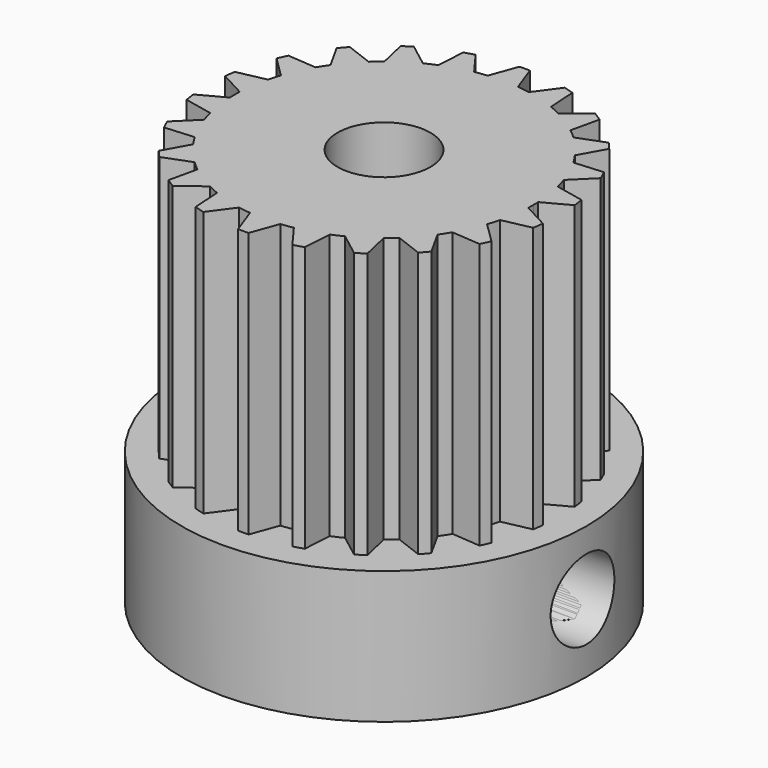
from build123d import *

# Parameters (mm, degrees)
F0_R     = 1.75
F1_DEPTH = 15
F0_R_2   = 7.625
F2_DEPTH = 5
F3_R     = 1.5
F4_DEPTH = 12.5


with BuildPart() as f1:
    # F0 (on Top) → F1 (new body)
    with BuildSketch(Plane.XY):
        with BuildLine():
            ThreePointArc((5.6202052624, -0.2322020854), (5.6238011879, -0.1161257917), (5.625, 0))
            ThreePointArc((5.625, 0), (5.6238011879, 0.1161257917), (5.6202052624, 0.2322020854))
            ThreePointArc((5.6202052624, 0.2322020854), (5.5677456106, 0.8005209653), (5.4579663468, 1.3605985291))
            ThreePointArc((5.4579663468, 1.3605985291), (5.3971479766, 1.5847456322), (5.3271285723, 1.806191068))
            ThreePointArc((5.3271285723, 1.806191068), (5.1166799739, 2.3367094481), (4.8535554575, 2.8431715427))
            ThreePointArc((4.8535554575, 2.8431715427), (4.7320511222, 3.0411045982), (4.602479607, 3.233853192))
            ThreePointArc((4.602479607, 3.233853192), (4.2510913557, 3.6835916284), (3.8559383703, 4.0954077068))
            ThreePointArc((3.8559383703, 4.0954077068), (3.6835916284, 4.2510913557), (3.5049651159, 4.3995277629))
            ThreePointArc((3.5049651159, 4.3995277629), (3.0411045982, 4.7320511222), (2.5459360884, 5.0158582948))
            ThreePointArc((2.5459360884, 5.0158582948), (2.3367094481, 5.1166799739), (2.1234991959, 5.2087787595))
            ThreePointArc((2.1234991959, 5.2087787595), (1.5847456322, 5.3971479766), (1.029677206, 5.5299538743))
            ThreePointArc((1.029677206, 5.5299538743), (0.8005209653, 5.5677456106), (0.57, 5.5960454787))
            ThreePointArc((0.57, 5.5960454787), (0, 5.625), (-0.57, 5.5960454787))
            ThreePointArc((-0.57, 5.5960454787), (-0.8005209653, 5.5677456106), (-1.029677206, 5.5299538743))
            ThreePointArc((-1.029677206, 5.5299538743), (-1.5847456322, 5.3971479766), (-2.1234991959, 5.2087787595))
            ThreePointArc((-2.1234991959, 5.2087787595), (-2.3367094481, 5.1166799739), (-2.5459360884, 5.0158582948))
            ThreePointArc((-2.5459360884, 5.0158582948), (-3.0411045982, 4.7320511222), (-3.5049651159, 4.3995277629))
            ThreePointArc((-3.5049651159, 4.3995277629), (-3.6835916284, 4.2510913557), (-3.8559383703, 4.0954077068))
            ThreePointArc((-3.8559383703, 4.0954077068), (-4.2510913557, 3.6835916284), (-4.602479607, 3.233853192))
            ThreePointArc((-4.602479607, 3.233853192), (-4.7320511222, 3.0411045982), (-4.8535554575, 2.8431715427))
            ThreePointArc((-4.8535554575, 2.8431715427), (-5.1166799739, 2.3367094481), (-5.3271285723, 1.806191068))
            ThreePointArc((-5.3271285723, 1.806191068), (-5.3971479766, 1.5847456322), (-5.4579663468, 1.3605985291))
            ThreePointArc((-5.4579663468, 1.3605985291), (-5.5677456106, 0.8005209653), (-5.6202052624, 0.2322020854))
            ThreePointArc((-5.6202052624, 0.2322020854), (-5.625, 0), (-5.6202052624, -0.2322020854))
            ThreePointArc((-5.6202052624, -0.2322020854), (-5.5677456106, -0.8005209653), (-5.4579663468, -1.3605985291))
            ThreePointArc((-5.4579663468, -1.3605985291), (-5.3971479766, -1.5847456322), (-5.3271285723, -1.806191068))
            ThreePointArc((-5.3271285723, -1.806191068), (-5.1166799739, -2.3367094481), (-4.8535554575, -2.8431715427))
            ThreePointArc((-4.8535554575, -2.8431715427), (-4.7320511222, -3.0411045982), (-4.602479607, -3.233853192))
            ThreePointArc((-4.602479607, -3.233853192), (-4.2510913557, -3.6835916284), (-3.8559383703, -4.0954077068))
            ThreePointArc((-3.8559383703, -4.0954077068), (-3.6835916284, -4.2510913557), (-3.5049651159, -4.3995277629))
            ThreePointArc((-3.5049651159, -4.3995277629), (-3.0411045982, -4.7320511222), (-2.5459360884, -5.0158582948))
            ThreePointArc((-2.5459360884, -5.0158582948), (-2.3367094481, -5.1166799739), (-2.1234991959, -5.2087787595))
            ThreePointArc((-2.1234991959, -5.2087787595), (-1.5847456322, -5.3971479766), (-1.029677206, -5.5299538743))
            ThreePointArc((-1.029677206, -5.5299538743), (-0.8005209653, -5.5677456106), (-0.57, -5.5960454787))
            ThreePointArc((-0.57, -5.5960454787), (0, -5.625), (0.57, -5.5960454787))
            ThreePointArc((0.57, -5.5960454787), (0.8005209653, -5.5677456106), (1.029677206, -5.5299538743))
            ThreePointArc((1.029677206, -5.5299538743), (1.5847456322, -5.3971479766), (2.1234991959, -5.2087787595))
            ThreePointArc((2.1234991959, -5.2087787595), (2.3367094481, -5.1166799739), (2.5459360884, -5.0158582948))
            ThreePointArc((2.5459360884, -5.0158582948), (3.0411045982, -4.7320511222), (3.5049651159, -4.3995277629))
            ThreePointArc((3.5049651159, -4.3995277629), (3.6835916284, -4.2510913557), (3.8559383703, -4.0954077068))
            ThreePointArc((3.8559383703, -4.0954077068), (4.2510913557, -3.6835916284), (4.602479607, -3.233853192))
            ThreePointArc((4.602479607, -3.233853192), (4.7320511222, -3.0411045982), (4.8535554575, -2.8431715427))
            ThreePointArc((4.8535554575, -2.8431715427), (5.1166799739, -2.3367094481), (5.3271285723, -1.806191068))
            ThreePointArc((5.3271285723, -1.806191068), (5.3971479766, -1.5847456322), (5.4579663468, -1.3605985291))
            ThreePointArc((5.4579663468, -1.3605985291), (5.5677456106, -0.8005209653), (5.6202052624, -0.2322020854))
        make_face()
        Circle(F0_R, mode=Mode.SUBTRACT)
        with BuildLine():
            ThreePointArc((-0.57, 5.5960454787), (0, 5.625), (0.57, 5.5960454787))
            Line((0.57, 5.5960454787), (0.1965526412, 6.6220836645))
            ThreePointArc((0.1965526412, 6.6220836645), (0, 6.625), (-0.1965526412, 6.6220836645))
            Line((-0.1965526412, 6.6220836645), (-0.57, 5.5960454787))
        make_face()
        with BuildLine():
            ThreePointArc((1.029677206, 5.5299538743), (1.5847456322, 5.3971479766), (2.1234991959, 5.2087787595))
            Line((2.1234991959, 5.2087787595), (2.0542474406, 6.2984674686))
            ThreePointArc((2.0542474406, 6.2984674686), (1.8664781891, 6.3566409502), (1.6770656843, 6.4092180249))
            Line((1.6770656843, 6.4092180249), (1.029677206, 5.5299538743))
        make_face()
        with BuildLine():
            ThreePointArc((2.5459360884, 5.0158582948), (3.0411045982, 4.7320511222), (3.5049651159, 4.3995277629))
            Line((3.5049651159, 4.3995277629), (3.7455193294, 5.4645868968))
            ThreePointArc((3.7455193294, 5.4645868968), (3.5817454156, 5.573304655), (3.4148181218, 5.677115658))
            Line((3.4148181218, 5.677115658), (2.5459360884, 5.0158582948))
        make_face()
        with BuildLine():
            ThreePointArc((3.8559383703, 4.0954077068), (4.2510913557, 3.6835916284), (4.602479607, 3.233853192))
            Line((4.602479607, 3.233853192), (5.1333515176, 4.1879979939))
            ThreePointArc((5.1333515176, 4.1879979939), (5.0068409301, 4.3384523624), (4.8759223039, 4.4850871437))
            Line((4.8759223039, 4.4850871437), (3.8559383703, 4.0954077068))
        make_face()
        with BuildLine():
            ThreePointArc((4.8535554575, 2.8431715427), (5.1166799739, 2.3367094481), (5.3271285723, 1.806191068))
            Line((5.3271285723, 1.806191068), (6.1053100951, 2.5721224004))
            ThreePointArc((6.1053100951, 2.5721224004), (6.0263119692, 2.7521244611), (5.9420082591, 2.9297035428))
            Line((5.9420082591, 2.9297035428), (4.8535554575, 2.8431715427))
        make_face()
        with BuildLine():
            ThreePointArc((5.4579663468, 1.3605985291), (5.5677456106, 0.8005209653), (5.6202052624, 0.2322020854))
            Line((5.6202052624, 0.2322020854), (6.5826527584, 0.7478687471))
            ThreePointArc((6.5826527584, 0.7478687471), (6.5575670525, 0.9428358036), (6.5267080437, 1.1369727844))
            Line((6.5267080437, 1.1369727844), (5.4579663468, 1.3605985291))
        make_face()
        with BuildLine():
            Line((6.5826527584, -0.7478687471), (5.6202052624, -0.2322020854))
            ThreePointArc((5.6202052624, -0.2322020854), (5.5677456106, -0.8005209653), (5.4579663468, -1.3605985291))
            Line((5.4579663468, -1.3605985291), (6.5267080437, -1.1369727844))
            ThreePointArc((6.5267080437, -1.1369727844), (6.5575670525, -0.9428358036), (6.5826527584, -0.7478687471))
        make_face()
        with BuildLine():
            Line((6.1053100951, -2.5721224004), (5.3271285723, -1.806191068))
            ThreePointArc((5.3271285723, -1.806191068), (5.1166799739, -2.3367094481), (4.8535554575, -2.8431715427))
            Line((4.8535554575, -2.8431715427), (5.9420082591, -2.9297035428))
            ThreePointArc((5.9420082591, -2.9297035428), (6.0263119692, -2.7521244611), (6.1053100951, -2.5721224004))
        make_face()
        with BuildLine():
            Line((5.1333515176, -4.1879979939), (4.602479607, -3.233853192))
            ThreePointArc((4.602479607, -3.233853192), (4.2510913557, -3.6835916284), (3.8559383703, -4.0954077068))
            Line((3.8559383703, -4.0954077068), (4.8759223039, -4.4850871437))
            ThreePointArc((4.8759223039, -4.4850871437), (5.0068409301, -4.3384523624), (5.1333515176, -4.1879979939))
        make_face()
        with BuildLine():
            Line((3.7455193294, -5.4645868968), (3.5049651159, -4.3995277629))
            ThreePointArc((3.5049651159, -4.3995277629), (3.0411045982, -4.7320511222), (2.5459360884, -5.0158582948))
            Line((2.5459360884, -5.0158582948), (3.4148181218, -5.677115658))
            ThreePointArc((3.4148181218, -5.677115658), (3.5817454156, -5.573304655), (3.7455193294, -5.4645868968))
        make_face()
        with BuildLine():
            Line((2.0542474406, -6.2984674686), (2.1234991959, -5.2087787595))
            ThreePointArc((2.1234991959, -5.2087787595), (1.5847456322, -5.3971479766), (1.029677206, -5.5299538743))
            Line((1.029677206, -5.5299538743), (1.6770656843, -6.4092180249))
            ThreePointArc((1.6770656843, -6.4092180249), (1.8664781891, -6.3566409502), (2.0542474406, -6.2984674686))
        make_face()
        with BuildLine():
            Line((0.1965526412, -6.6220836645), (0.57, -5.5960454787))
            ThreePointArc((0.57, -5.5960454787), (0, -5.625), (-0.57, -5.5960454787))
            Line((-0.57, -5.5960454787), (-0.1965526412, -6.6220836645))
            ThreePointArc((-0.1965526412, -6.6220836645), (0, -6.625), (0.1965526412, -6.6220836645))
        make_face()
        with BuildLine():
            Line((-1.6770656843, -6.4092180249), (-1.029677206, -5.5299538743))
            ThreePointArc((-1.029677206, -5.5299538743), (-1.5847456322, -5.3971479766), (-2.1234991959, -5.2087787595))
            Line((-2.1234991959, -5.2087787595), (-2.0542474406, -6.2984674686))
            ThreePointArc((-2.0542474406, -6.2984674686), (-1.8664781891, -6.3566409502), (-1.6770656843, -6.4092180249))
        make_face()
        with BuildLine():
            Line((-3.4148181218, -5.677115658), (-2.5459360884, -5.0158582948))
            ThreePointArc((-2.5459360884, -5.0158582948), (-3.0411045982, -4.7320511222), (-3.5049651159, -4.3995277629))
            Line((-3.5049651159, -4.3995277629), (-3.7455193294, -5.4645868968))
            ThreePointArc((-3.7455193294, -5.4645868968), (-3.5817454156, -5.573304655), (-3.4148181218, -5.677115658))
        make_face()
        with BuildLine():
            Line((-4.8759223039, -4.4850871437), (-3.8559383703, -4.0954077068))
            ThreePointArc((-3.8559383703, -4.0954077068), (-4.2510913557, -3.6835916284), (-4.602479607, -3.233853192))
            Line((-4.602479607, -3.233853192), (-5.1333515176, -4.1879979939))
            ThreePointArc((-5.1333515176, -4.1879979939), (-5.0068409301, -4.3384523624), (-4.8759223039, -4.4850871437))
        make_face()
        with BuildLine():
            Line((-5.9420082591, -2.9297035428), (-4.8535554575, -2.8431715427))
            ThreePointArc((-4.8535554575, -2.8431715427), (-5.1166799739, -2.3367094481), (-5.3271285723, -1.806191068))
            Line((-5.3271285723, -1.806191068), (-6.1053100951, -2.5721224004))
            ThreePointArc((-6.1053100951, -2.5721224004), (-6.0263119692, -2.7521244611), (-5.9420082591, -2.9297035428))
        make_face()
        with BuildLine():
            Line((-6.5267080437, -1.1369727844), (-5.4579663468, -1.3605985291))
            ThreePointArc((-5.4579663468, -1.3605985291), (-5.5677456106, -0.8005209653), (-5.6202052624, -0.2322020854))
            Line((-5.6202052624, -0.2322020854), (-6.5826527584, -0.7478687471))
            ThreePointArc((-6.5826527584, -0.7478687471), (-6.5575670525, -0.9428358036), (-6.5267080437, -1.1369727844))
        make_face()
        with BuildLine():
            ThreePointArc((-5.6202052624, 0.2322020854), (-5.5677456106, 0.8005209653), (-5.4579663468, 1.3605985291))
            Line((-5.4579663468, 1.3605985291), (-6.5267080437, 1.1369727844))
            ThreePointArc((-6.5267080437, 1.1369727844), (-6.5575670525, 0.9428358036), (-6.5826527584, 0.7478687471))
            Line((-6.5826527584, 0.7478687471), (-5.6202052624, 0.2322020854))
        make_face()
        with BuildLine():
            ThreePointArc((-5.3271285723, 1.806191068), (-5.1166799739, 2.3367094481), (-4.8535554575, 2.8431715427))
            Line((-4.8535554575, 2.8431715427), (-5.9420082591, 2.9297035428))
            ThreePointArc((-5.9420082591, 2.9297035428), (-6.0263119692, 2.7521244611), (-6.1053100951, 2.5721224004))
            Line((-6.1053100951, 2.5721224004), (-5.3271285723, 1.806191068))
        make_face()
        with BuildLine():
            ThreePointArc((-4.602479607, 3.233853192), (-4.2510913557, 3.6835916284), (-3.8559383703, 4.0954077068))
            Line((-3.8559383703, 4.0954077068), (-4.8759223039, 4.4850871437))
            ThreePointArc((-4.8759223039, 4.4850871437), (-5.0068409301, 4.3384523624), (-5.1333515176, 4.1879979939))
            Line((-5.1333515176, 4.1879979939), (-4.602479607, 3.233853192))
        make_face()
        with BuildLine():
            ThreePointArc((-3.5049651159, 4.3995277629), (-3.0411045982, 4.7320511222), (-2.5459360884, 5.0158582948))
            Line((-2.5459360884, 5.0158582948), (-3.4148181218, 5.677115658))
            ThreePointArc((-3.4148181218, 5.677115658), (-3.5817454156, 5.573304655), (-3.7455193294, 5.4645868968))
            Line((-3.7455193294, 5.4645868968), (-3.5049651159, 4.3995277629))
        make_face()
        with BuildLine():
            ThreePointArc((-2.1234991959, 5.2087787595), (-1.5847456322, 5.3971479766), (-1.029677206, 5.5299538743))
            Line((-1.029677206, 5.5299538743), (-1.6770656843, 6.4092180249))
            ThreePointArc((-1.6770656843, 6.4092180249), (-1.8664781891, 6.3566409502), (-2.0542474406, 6.2984674686))
            Line((-2.0542474406, 6.2984674686), (-2.1234991959, 5.2087787595))
        make_face()
    extrude(amount=F1_DEPTH)


with BuildPart() as f2:
    # F0 (on Top) → F2 (new body)
    with BuildSketch(Plane.XY):
        Circle(F0_R_2)
        with BuildLine():
            ThreePointArc((7.050542317, 1.0273646071), (7.0524777734, 1.0139932227), (7.0543878709, 1.0006181923))
            ThreePointArc((7.0543878709, 1.0006181923), (7.1073250446, 0.5015532971), (7.125, 0))
            ThreePointArc((7.125, 0), (7.1073250446, -0.5015532971), (7.0543878709, -1.0006181923))
            ThreePointArc((7.0543878709, -1.0006181923), (7.0524777734, -1.0139932227), (7.050542317, -1.0273646071))
            ThreePointArc((7.050542317, -1.0273646071), (6.836387437, -2.0073444675), (6.4867288736, -2.9475368566))
            ThreePointArc((6.4867288736, -2.9475368566), (6.4811279669, -2.9598319676), (6.4755037558, -2.9721164359))
            ThreePointArc((6.4755037558, -2.9721164359), (5.9939314214, -3.8520658244), (5.3935536809, -4.6556636145))
            ThreePointArc((5.3935536809, -4.6556636145), (5.3847157173, -4.6658827294), (5.3758583916, -4.676085067))
            ThreePointArc((5.3758583916, -4.676085067), (4.6658827294, -5.3847157173), (3.8634248458, -5.9866161946))
            ThreePointArc((3.8634248458, -5.9866161946), (3.8520658244, -5.9939314214), (3.840692952, -6.0012250957))
            ThreePointArc((3.840692952, -6.0012250957), (2.9598319676, -6.4811279669), (2.0203043063, -6.8325687344))
            ThreePointArc((2.0203043063, -6.8325687344), (2.0073444675, -6.836387437), (1.9943774108, -6.8401815578))
            ThreePointArc((1.9943774108, -6.8401815578), (1.0139932227, -7.0524777734), (0.0135107271, -7.1249871902))
            ThreePointArc((0.0135107271, -7.1249871902), (0, -7.125), (-0.0135107271, -7.1249871902))
            ThreePointArc((-0.0135107271, -7.1249871902), (-1.0139932227, -7.0524777734), (-1.9943774108, -6.8401815578))
            ThreePointArc((-1.9943774108, -6.8401815578), (-2.0073444675, -6.836387437), (-2.0203043063, -6.8325687344))
            ThreePointArc((-2.0203043063, -6.8325687344), (-2.9598319676, -6.4811279669), (-3.840692952, -6.0012250957))
            ThreePointArc((-3.840692952, -6.0012250957), (-3.8520658244, -5.9939314214), (-3.8634248458, -5.9866161946))
            ThreePointArc((-3.8634248458, -5.9866161946), (-4.6658827294, -5.3847157173), (-5.3758583916, -4.676085067))
            ThreePointArc((-5.3758583916, -4.676085067), (-5.3847157173, -4.6658827294), (-5.3935536809, -4.6556636145))
            ThreePointArc((-5.3935536809, -4.6556636145), (-5.9939314214, -3.8520658244), (-6.4755037558, -2.9721164359))
            ThreePointArc((-6.4755037558, -2.9721164359), (-6.4811279669, -2.9598319676), (-6.4867288736, -2.9475368566))
            ThreePointArc((-6.4867288736, -2.9475368566), (-6.836387437, -2.0073444675), (-7.050542317, -1.0273646071))
            ThreePointArc((-7.050542317, -1.0273646071), (-7.0524777734, -1.0139932227), (-7.0543878709, -1.0006181923))
            ThreePointArc((-7.0543878709, -1.0006181923), (-7.125, 0), (-7.0543878709, 1.0006181923))
            ThreePointArc((-7.0543878709, 1.0006181923), (-7.0524777734, 1.0139932227), (-7.050542317, 1.0273646071))
            ThreePointArc((-7.050542317, 1.0273646071), (-6.836387437, 2.0073444675), (-6.4867288736, 2.9475368566))
            ThreePointArc((-6.4867288736, 2.9475368566), (-6.4811279669, 2.9598319676), (-6.4755037558, 2.9721164359))
            ThreePointArc((-6.4755037558, 2.9721164359), (-5.9939314214, 3.8520658244), (-5.3935536809, 4.6556636145))
            ThreePointArc((-5.3935536809, 4.6556636145), (-5.3847157173, 4.6658827294), (-5.3758583916, 4.676085067))
            ThreePointArc((-5.3758583916, 4.676085067), (-4.6658827294, 5.3847157173), (-3.8634248458, 5.9866161946))
            ThreePointArc((-3.8634248458, 5.9866161946), (-3.8520658244, 5.9939314214), (-3.840692952, 6.0012250957))
            ThreePointArc((-3.840692952, 6.0012250957), (-2.9598319676, 6.4811279669), (-2.0203043063, 6.8325687344))
            ThreePointArc((-2.0203043063, 6.8325687344), (-2.0073444675, 6.836387437), (-1.9943774108, 6.8401815578))
            ThreePointArc((-1.9943774108, 6.8401815578), (-1.0139932227, 7.0524777734), (-0.0135107271, 7.1249871902))
            ThreePointArc((-0.0135107271, 7.1249871902), (0, 7.125), (0.0135107271, 7.1249871902))
            ThreePointArc((0.0135107271, 7.1249871902), (1.0139932227, 7.0524777734), (1.9943774108, 6.8401815578))
            ThreePointArc((1.9943774108, 6.8401815578), (2.0073444675, 6.836387437), (2.0203043063, 6.8325687344))
            ThreePointArc((2.0203043063, 6.8325687344), (2.9598319676, 6.4811279669), (3.840692952, 6.0012250957))
            ThreePointArc((3.840692952, 6.0012250957), (3.8520658244, 5.9939314214), (3.8634248458, 5.9866161946))
            ThreePointArc((3.8634248458, 5.9866161946), (4.6658827294, 5.3847157173), (5.3758583916, 4.676085067))
            ThreePointArc((5.3758583916, 4.676085067), (5.3847157173, 4.6658827294), (5.3935536809, 4.6556636145))
            ThreePointArc((5.3935536809, 4.6556636145), (5.9939314214, 3.8520658244), (6.4755037558, 2.9721164359))
            ThreePointArc((6.4755037558, 2.9721164359), (6.4811279669, 2.9598319676), (6.4867288736, 2.9475368566))
            ThreePointArc((6.4867288736, 2.9475368566), (6.836387437, 2.0073444675), (7.050542317, 1.0273646071))
        make_face(mode=Mode.SUBTRACT)
        with BuildLine():
            ThreePointArc((-5.1333515176, 4.1879979939), (-5.0068409301, 4.3384523624), (-4.8759223039, 4.4850871437))
            Line((-4.8759223039, 4.4850871437), (-5.3758583916, 4.676085067))
            ThreePointArc((-5.3758583916, 4.676085067), (-5.3847157173, 4.6658827294), (-5.3935536809, 4.6556636145))
            Line((-5.3935536809, 4.6556636145), (-5.1333515176, 4.1879979939))
        make_face()
        with BuildLine():
            ThreePointArc((-4.602479607, 3.233853192), (-4.2510913557, 3.6835916284), (-3.8559383703, 4.0954077068))
            Line((-3.8559383703, 4.0954077068), (-4.8759223039, 4.4850871437))
            ThreePointArc((-4.8759223039, 4.4850871437), (-5.0068409301, 4.3384523624), (-5.1333515176, 4.1879979939))
            Line((-5.1333515176, 4.1879979939), (-4.602479607, 3.233853192))
        make_face()
        with BuildLine():
            Line((6.4755037558, -2.9721164359), (5.9420082591, -2.9297035428))
            ThreePointArc((5.9420082591, -2.9297035428), (5.573304655, -3.5817454156), (5.1333515176, -4.1879979939))
            Line((5.1333515176, -4.1879979939), (5.3935536809, -4.6556636145))
            ThreePointArc((5.3935536809, -4.6556636145), (5.9939314214, -3.8520658244), (6.4755037558, -2.9721164359))
        make_face()
        with BuildLine():
            Line((5.9420082591, -2.9297035428), (4.8535554575, -2.8431715427))
            ThreePointArc((4.8535554575, -2.8431715427), (4.7320511222, -3.0411045982), (4.602479607, -3.233853192))
            Line((4.602479607, -3.233853192), (5.1333515176, -4.1879979939))
            ThreePointArc((5.1333515176, -4.1879979939), (5.573304655, -3.5817454156), (5.9420082591, -2.9297035428))
        make_face()
        with BuildLine():
            ThreePointArc((0.1965526412, 6.6220836645), (0.9428358036, 6.5575670525), (1.6770656843, 6.4092180249))
            Line((1.6770656843, 6.4092180249), (1.9943774108, 6.8401815578))
            ThreePointArc((1.9943774108, 6.8401815578), (1.0139932227, 7.0524777734), (0.0135107271, 7.1249871902))
            Line((0.0135107271, 7.1249871902), (0.1965526412, 6.6220836645))
        make_face()
        with BuildLine():
            ThreePointArc((0.57, 5.5960454787), (0.8005209653, 5.5677456106), (1.029677206, 5.5299538743))
            Line((1.029677206, 5.5299538743), (1.6770656843, 6.4092180249))
            ThreePointArc((1.6770656843, 6.4092180249), (0.9428358036, 6.5575670525), (0.1965526412, 6.6220836645))
            Line((0.1965526412, 6.6220836645), (0.57, 5.5960454787))
        make_face()
        with BuildLine():
            ThreePointArc((5.1333515176, 4.1879979939), (5.573304655, 3.5817454156), (5.9420082591, 2.9297035428))
            Line((5.9420082591, 2.9297035428), (6.4755037558, 2.9721164359))
            ThreePointArc((6.4755037558, 2.9721164359), (5.9939314214, 3.8520658244), (5.3935536809, 4.6556636145))
            Line((5.3935536809, 4.6556636145), (5.1333515176, 4.1879979939))
        make_face()
        with BuildLine():
            ThreePointArc((4.602479607, 3.233853192), (4.7320511222, 3.0411045982), (4.8535554575, 2.8431715427))
            Line((4.8535554575, 2.8431715427), (5.9420082591, 2.9297035428))
            ThreePointArc((5.9420082591, 2.9297035428), (5.573304655, 3.5817454156), (5.1333515176, 4.1879979939))
            Line((5.1333515176, 4.1879979939), (4.602479607, 3.233853192))
        make_face()
        with BuildLine():
            Line((2.0203043063, -6.8325687344), (2.0542474406, -6.2984674686))
            ThreePointArc((2.0542474406, -6.2984674686), (1.8664781891, -6.3566409502), (1.6770656843, -6.4092180249))
            Line((1.6770656843, -6.4092180249), (1.9943774108, -6.8401815578))
            ThreePointArc((1.9943774108, -6.8401815578), (2.0073444675, -6.836387437), (2.0203043063, -6.8325687344))
        make_face()
        with BuildLine():
            Line((2.0542474406, -6.2984674686), (2.1234991959, -5.2087787595))
            ThreePointArc((2.1234991959, -5.2087787595), (1.5847456322, -5.3971479766), (1.029677206, -5.5299538743))
            Line((1.029677206, -5.5299538743), (1.6770656843, -6.4092180249))
            ThreePointArc((1.6770656843, -6.4092180249), (1.8664781891, -6.3566409502), (2.0542474406, -6.2984674686))
        make_face()
        with BuildLine():
            Line((-7.050542317, -1.0273646071), (-6.5267080437, -1.1369727844))
            ThreePointArc((-6.5267080437, -1.1369727844), (-6.5575670525, -0.9428358036), (-6.5826527584, -0.7478687471))
            Line((-6.5826527584, -0.7478687471), (-7.0543878709, -1.0006181923))
            ThreePointArc((-7.0543878709, -1.0006181923), (-7.0524777734, -1.0139932227), (-7.050542317, -1.0273646071))
        make_face()
        with BuildLine():
            Line((-6.5267080437, -1.1369727844), (-5.4579663468, -1.3605985291))
            ThreePointArc((-5.4579663468, -1.3605985291), (-5.5677456106, -0.8005209653), (-5.6202052624, -0.2322020854))
            Line((-5.6202052624, -0.2322020854), (-6.5826527584, -0.7478687471))
            ThreePointArc((-6.5826527584, -0.7478687471), (-6.5575670525, -0.9428358036), (-6.5267080437, -1.1369727844))
        make_face()
        with BuildLine():
            Line((-6.4755037558, -2.9721164359), (-5.9420082591, -2.9297035428))
            ThreePointArc((-5.9420082591, -2.9297035428), (-6.0263119692, -2.7521244611), (-6.1053100951, -2.5721224004))
            Line((-6.1053100951, -2.5721224004), (-6.4867288736, -2.9475368566))
            ThreePointArc((-6.4867288736, -2.9475368566), (-6.4811279669, -2.9598319676), (-6.4755037558, -2.9721164359))
        make_face()
        with BuildLine():
            Line((-5.9420082591, -2.9297035428), (-4.8535554575, -2.8431715427))
            ThreePointArc((-4.8535554575, -2.8431715427), (-5.1166799739, -2.3367094481), (-5.3271285723, -1.806191068))
            Line((-5.3271285723, -1.806191068), (-6.1053100951, -2.5721224004))
            ThreePointArc((-6.1053100951, -2.5721224004), (-6.0263119692, -2.7521244611), (-5.9420082591, -2.9297035428))
        make_face()
        with BuildLine():
            ThreePointArc((4.8759223039, 4.4850871437), (5.0068409301, 4.3384523624), (5.1333515176, 4.1879979939))
            Line((5.1333515176, 4.1879979939), (5.3935536809, 4.6556636145))
            ThreePointArc((5.3935536809, 4.6556636145), (5.3847157173, 4.6658827294), (5.3758583916, 4.676085067))
            Line((5.3758583916, 4.676085067), (4.8759223039, 4.4850871437))
        make_face()
        with BuildLine():
            ThreePointArc((3.8559383703, 4.0954077068), (4.2510913557, 3.6835916284), (4.602479607, 3.233853192))
            Line((4.602479607, 3.233853192), (5.1333515176, 4.1879979939))
            ThreePointArc((5.1333515176, 4.1879979939), (5.0068409301, 4.3384523624), (4.8759223039, 4.4850871437))
            Line((4.8759223039, 4.4850871437), (3.8559383703, 4.0954077068))
        make_face()
        with BuildLine():
            ThreePointArc((6.1053100951, 2.5721224004), (6.3566409502, 1.8664781891), (6.5267080437, 1.1369727844))
            Line((6.5267080437, 1.1369727844), (7.050542317, 1.0273646071))
            ThreePointArc((7.050542317, 1.0273646071), (6.836387437, 2.0073444675), (6.4867288736, 2.9475368566))
            Line((6.4867288736, 2.9475368566), (6.1053100951, 2.5721224004))
        make_face()
        with BuildLine():
            ThreePointArc((5.3271285723, 1.806191068), (5.3971479766, 1.5847456322), (5.4579663468, 1.3605985291))
            Line((5.4579663468, 1.3605985291), (6.5267080437, 1.1369727844))
            ThreePointArc((6.5267080437, 1.1369727844), (6.3566409502, 1.8664781891), (6.1053100951, 2.5721224004))
            Line((6.1053100951, 2.5721224004), (5.3271285723, 1.806191068))
        make_face()
        with BuildLine():
            Line((-1.9943774108, -6.8401815578), (-1.6770656843, -6.4092180249))
            ThreePointArc((-1.6770656843, -6.4092180249), (-1.8664781891, -6.3566409502), (-2.0542474406, -6.2984674686))
            Line((-2.0542474406, -6.2984674686), (-2.0203043063, -6.8325687344))
            ThreePointArc((-2.0203043063, -6.8325687344), (-2.0073444675, -6.836387437), (-1.9943774108, -6.8401815578))
        make_face()
        with BuildLine():
            Line((-1.6770656843, -6.4092180249), (-1.029677206, -5.5299538743))
            ThreePointArc((-1.029677206, -5.5299538743), (-1.5847456322, -5.3971479766), (-2.1234991959, -5.2087787595))
            Line((-2.1234991959, -5.2087787595), (-2.0542474406, -6.2984674686))
            ThreePointArc((-2.0542474406, -6.2984674686), (-1.8664781891, -6.3566409502), (-1.6770656843, -6.4092180249))
        make_face()
        with BuildLine():
            Line((6.4867288736, -2.9475368566), (6.1053100951, -2.5721224004))
            ThreePointArc((6.1053100951, -2.5721224004), (6.0263119692, -2.7521244611), (5.9420082591, -2.9297035428))
            Line((5.9420082591, -2.9297035428), (6.4755037558, -2.9721164359))
            ThreePointArc((6.4755037558, -2.9721164359), (6.4811279669, -2.9598319676), (6.4867288736, -2.9475368566))
        make_face()
        with BuildLine():
            Line((6.1053100951, -2.5721224004), (5.3271285723, -1.806191068))
            ThreePointArc((5.3271285723, -1.806191068), (5.1166799739, -2.3367094481), (4.8535554575, -2.8431715427))
            Line((4.8535554575, -2.8431715427), (5.9420082591, -2.9297035428))
            ThreePointArc((5.9420082591, -2.9297035428), (6.0263119692, -2.7521244611), (6.1053100951, -2.5721224004))
        make_face()
        with BuildLine():
            ThreePointArc((-3.4148181218, 5.677115658), (-2.7521244611, 6.0263119692), (-2.0542474406, 6.2984674686))
            Line((-2.0542474406, 6.2984674686), (-2.0203043063, 6.8325687344))
            ThreePointArc((-2.0203043063, 6.8325687344), (-2.9598319676, 6.4811279669), (-3.840692952, 6.0012250957))
            Line((-3.840692952, 6.0012250957), (-3.4148181218, 5.677115658))
        make_face()
        with BuildLine():
            ThreePointArc((-2.5459360884, 5.0158582948), (-2.3367094481, 5.1166799739), (-2.1234991959, 5.2087787595))
            Line((-2.1234991959, 5.2087787595), (-2.0542474406, 6.2984674686))
            ThreePointArc((-2.0542474406, 6.2984674686), (-2.7521244611, 6.0263119692), (-3.4148181218, 5.677115658))
            Line((-3.4148181218, 5.677115658), (-2.5459360884, 5.0158582948))
        make_face()
        with BuildLine():
            Line((1.9943774108, -6.8401815578), (1.6770656843, -6.4092180249))
            ThreePointArc((1.6770656843, -6.4092180249), (0.9428358036, -6.5575670525), (0.1965526412, -6.6220836645))
            Line((0.1965526412, -6.6220836645), (0.0135107271, -7.1249871902))
            ThreePointArc((0.0135107271, -7.1249871902), (1.0139932227, -7.0524777734), (1.9943774108, -6.8401815578))
        make_face()
        with BuildLine():
            Line((1.6770656843, -6.4092180249), (1.029677206, -5.5299538743))
            ThreePointArc((1.029677206, -5.5299538743), (0.8005209653, -5.5677456106), (0.57, -5.5960454787))
            Line((0.57, -5.5960454787), (0.1965526412, -6.6220836645))
            ThreePointArc((0.1965526412, -6.6220836645), (0.9428358036, -6.5575670525), (1.6770656843, -6.4092180249))
        make_face()
        with BuildLine():
            ThreePointArc((3.4148181218, 5.677115658), (3.5817454156, 5.573304655), (3.7455193294, 5.4645868968))
            Line((3.7455193294, 5.4645868968), (3.8634248458, 5.9866161946))
            ThreePointArc((3.8634248458, 5.9866161946), (3.8520658244, 5.9939314214), (3.840692952, 6.0012250957))
            Line((3.840692952, 6.0012250957), (3.4148181218, 5.677115658))
        make_face()
        with BuildLine():
            ThreePointArc((2.5459360884, 5.0158582948), (3.0411045982, 4.7320511222), (3.5049651159, 4.3995277629))
            Line((3.5049651159, 4.3995277629), (3.7455193294, 5.4645868968))
            ThreePointArc((3.7455193294, 5.4645868968), (3.5817454156, 5.573304655), (3.4148181218, 5.677115658))
            Line((3.4148181218, 5.677115658), (2.5459360884, 5.0158582948))
        make_face()
        with BuildLine():
            Line((-6.4867288736, -2.9475368566), (-6.1053100951, -2.5721224004))
            ThreePointArc((-6.1053100951, -2.5721224004), (-6.3566409502, -1.8664781891), (-6.5267080437, -1.1369727844))
            Line((-6.5267080437, -1.1369727844), (-7.050542317, -1.0273646071))
            ThreePointArc((-7.050542317, -1.0273646071), (-6.836387437, -2.0073444675), (-6.4867288736, -2.9475368566))
        make_face()
        with BuildLine():
            Line((-6.1053100951, -2.5721224004), (-5.3271285723, -1.806191068))
            ThreePointArc((-5.3271285723, -1.806191068), (-5.3971479766, -1.5847456322), (-5.4579663468, -1.3605985291))
            Line((-5.4579663468, -1.3605985291), (-6.5267080437, -1.1369727844))
            ThreePointArc((-6.5267080437, -1.1369727844), (-6.3566409502, -1.8664781891), (-6.1053100951, -2.5721224004))
        make_face()
        with BuildLine():
            Line((0.0135107271, -7.1249871902), (0.1965526412, -6.6220836645))
            ThreePointArc((0.1965526412, -6.6220836645), (0, -6.625), (-0.1965526412, -6.6220836645))
            Line((-0.1965526412, -6.6220836645), (-0.0135107271, -7.1249871902))
            ThreePointArc((-0.0135107271, -7.1249871902), (0, -7.125), (0.0135107271, -7.1249871902))
        make_face()
        with BuildLine():
            Line((0.1965526412, -6.6220836645), (0.57, -5.5960454787))
            ThreePointArc((0.57, -5.5960454787), (0, -5.625), (-0.57, -5.5960454787))
            Line((-0.57, -5.5960454787), (-0.1965526412, -6.6220836645))
            ThreePointArc((-0.1965526412, -6.6220836645), (0, -6.625), (0.1965526412, -6.6220836645))
        make_face()
        with BuildLine():
            Line((-5.3758583916, -4.676085067), (-4.8759223039, -4.4850871437))
            ThreePointArc((-4.8759223039, -4.4850871437), (-5.0068409301, -4.3384523624), (-5.1333515176, -4.1879979939))
            Line((-5.1333515176, -4.1879979939), (-5.3935536809, -4.6556636145))
            ThreePointArc((-5.3935536809, -4.6556636145), (-5.3847157173, -4.6658827294), (-5.3758583916, -4.676085067))
        make_face()
        with BuildLine():
            Line((-4.8759223039, -4.4850871437), (-3.8559383703, -4.0954077068))
            ThreePointArc((-3.8559383703, -4.0954077068), (-4.2510913557, -3.6835916284), (-4.602479607, -3.233853192))
            Line((-4.602479607, -3.233853192), (-5.1333515176, -4.1879979939))
            ThreePointArc((-5.1333515176, -4.1879979939), (-5.0068409301, -4.3384523624), (-4.8759223039, -4.4850871437))
        make_face()
        with BuildLine():
            ThreePointArc((3.7455193294, 5.4645868968), (4.3384523624, 5.0068409301), (4.8759223039, 4.4850871437))
            Line((4.8759223039, 4.4850871437), (5.3758583916, 4.676085067))
            ThreePointArc((5.3758583916, 4.676085067), (4.6658827294, 5.3847157173), (3.8634248458, 5.9866161946))
            Line((3.8634248458, 5.9866161946), (3.7455193294, 5.4645868968))
        make_face()
        with BuildLine():
            ThreePointArc((3.5049651159, 4.3995277629), (3.6835916284, 4.2510913557), (3.8559383703, 4.0954077068))
            Line((3.8559383703, 4.0954077068), (4.8759223039, 4.4850871437))
            ThreePointArc((4.8759223039, 4.4850871437), (4.3384523624, 5.0068409301), (3.7455193294, 5.4645868968))
            Line((3.7455193294, 5.4645868968), (3.5049651159, 4.3995277629))
        make_face()
        with BuildLine():
            Line((7.050542317, -1.0273646071), (6.5267080437, -1.1369727844))
            ThreePointArc((6.5267080437, -1.1369727844), (6.3566409502, -1.8664781891), (6.1053100951, -2.5721224004))
            Line((6.1053100951, -2.5721224004), (6.4867288736, -2.9475368566))
            ThreePointArc((6.4867288736, -2.9475368566), (6.836387437, -2.0073444675), (7.050542317, -1.0273646071))
        make_face()
        with BuildLine():
            Line((6.5267080437, -1.1369727844), (5.4579663468, -1.3605985291))
            ThreePointArc((5.4579663468, -1.3605985291), (5.3971479766, -1.5847456322), (5.3271285723, -1.806191068))
            Line((5.3271285723, -1.806191068), (6.1053100951, -2.5721224004))
            ThreePointArc((6.1053100951, -2.5721224004), (6.3566409502, -1.8664781891), (6.5267080437, -1.1369727844))
        make_face()
        with BuildLine():
            Line((-0.0135107271, -7.1249871902), (-0.1965526412, -6.6220836645))
            ThreePointArc((-0.1965526412, -6.6220836645), (-0.9428358036, -6.5575670525), (-1.6770656843, -6.4092180249))
            Line((-1.6770656843, -6.4092180249), (-1.9943774108, -6.8401815578))
            ThreePointArc((-1.9943774108, -6.8401815578), (-1.0139932227, -7.0524777734), (-0.0135107271, -7.1249871902))
        make_face()
        with BuildLine():
            Line((-0.1965526412, -6.6220836645), (-0.57, -5.5960454787))
            ThreePointArc((-0.57, -5.5960454787), (-0.8005209653, -5.5677456106), (-1.029677206, -5.5299538743))
            Line((-1.029677206, -5.5299538743), (-1.6770656843, -6.4092180249))
            ThreePointArc((-1.6770656843, -6.4092180249), (-0.9428358036, -6.5575670525), (-0.1965526412, -6.6220836645))
        make_face()
        with BuildLine():
            ThreePointArc((-4.8759223039, 4.4850871437), (-4.3384523624, 5.0068409301), (-3.7455193294, 5.4645868968))
            Line((-3.7455193294, 5.4645868968), (-3.8634248458, 5.9866161946))
            ThreePointArc((-3.8634248458, 5.9866161946), (-4.6658827294, 5.3847157173), (-5.3758583916, 4.676085067))
            Line((-5.3758583916, 4.676085067), (-4.8759223039, 4.4850871437))
        make_face()
        with BuildLine():
            ThreePointArc((-3.8559383703, 4.0954077068), (-3.6835916284, 4.2510913557), (-3.5049651159, 4.3995277629))
            Line((-3.5049651159, 4.3995277629), (-3.7455193294, 5.4645868968))
            ThreePointArc((-3.7455193294, 5.4645868968), (-4.3384523624, 5.0068409301), (-4.8759223039, 4.4850871437))
            Line((-4.8759223039, 4.4850871437), (-3.8559383703, 4.0954077068))
        make_face()
        with BuildLine():
            Line((-5.3935536809, -4.6556636145), (-5.1333515176, -4.1879979939))
            ThreePointArc((-5.1333515176, -4.1879979939), (-5.573304655, -3.5817454156), (-5.9420082591, -2.9297035428))
            Line((-5.9420082591, -2.9297035428), (-6.4755037558, -2.9721164359))
            ThreePointArc((-6.4755037558, -2.9721164359), (-5.9939314214, -3.8520658244), (-5.3935536809, -4.6556636145))
        make_face()
        with BuildLine():
            Line((-5.1333515176, -4.1879979939), (-4.602479607, -3.233853192))
            ThreePointArc((-4.602479607, -3.233853192), (-4.7320511222, -3.0411045982), (-4.8535554575, -2.8431715427))
            Line((-4.8535554575, -2.8431715427), (-5.9420082591, -2.9297035428))
            ThreePointArc((-5.9420082591, -2.9297035428), (-5.573304655, -3.5817454156), (-5.1333515176, -4.1879979939))
        make_face()
        with BuildLine():
            ThreePointArc((-6.1053100951, 2.5721224004), (-6.0263119692, 2.7521244611), (-5.9420082591, 2.9297035428))
            Line((-5.9420082591, 2.9297035428), (-6.4755037558, 2.9721164359))
            ThreePointArc((-6.4755037558, 2.9721164359), (-6.4811279669, 2.9598319676), (-6.4867288736, 2.9475368566))
            Line((-6.4867288736, 2.9475368566), (-6.1053100951, 2.5721224004))
        make_face()
        with BuildLine():
            ThreePointArc((-5.3271285723, 1.806191068), (-5.1166799739, 2.3367094481), (-4.8535554575, 2.8431715427))
            Line((-4.8535554575, 2.8431715427), (-5.9420082591, 2.9297035428))
            ThreePointArc((-5.9420082591, 2.9297035428), (-6.0263119692, 2.7521244611), (-6.1053100951, 2.5721224004))
            Line((-6.1053100951, 2.5721224004), (-5.3271285723, 1.806191068))
        make_face()
        with BuildLine():
            Line((3.8634248458, -5.9866161946), (3.7455193294, -5.4645868968))
            ThreePointArc((3.7455193294, -5.4645868968), (3.5817454156, -5.573304655), (3.4148181218, -5.677115658))
            Line((3.4148181218, -5.677115658), (3.840692952, -6.0012250957))
            ThreePointArc((3.840692952, -6.0012250957), (3.8520658244, -5.9939314214), (3.8634248458, -5.9866161946))
        make_face()
        with BuildLine():
            Line((3.7455193294, -5.4645868968), (3.5049651159, -4.3995277629))
            ThreePointArc((3.5049651159, -4.3995277629), (3.0411045982, -4.7320511222), (2.5459360884, -5.0158582948))
            Line((2.5459360884, -5.0158582948), (3.4148181218, -5.677115658))
            ThreePointArc((3.4148181218, -5.677115658), (3.5817454156, -5.573304655), (3.7455193294, -5.4645868968))
        make_face()
        with BuildLine():
            ThreePointArc((6.5267080437, 1.1369727844), (6.5575670525, 0.9428358036), (6.5826527584, 0.7478687471))
            Line((6.5826527584, 0.7478687471), (7.0543878709, 1.0006181923))
            ThreePointArc((7.0543878709, 1.0006181923), (7.0524777734, 1.0139932227), (7.050542317, 1.0273646071))
            Line((7.050542317, 1.0273646071), (6.5267080437, 1.1369727844))
        make_face()
        with BuildLine():
            ThreePointArc((5.4579663468, 1.3605985291), (5.5677456106, 0.8005209653), (5.6202052624, 0.2322020854))
            Line((5.6202052624, 0.2322020854), (6.5826527584, 0.7478687471))
            ThreePointArc((6.5826527584, 0.7478687471), (6.5575670525, 0.9428358036), (6.5267080437, 1.1369727844))
            Line((6.5267080437, 1.1369727844), (5.4579663468, 1.3605985291))
        make_face()
        with BuildLine():
            ThreePointArc((-6.5826527584, 0.7478687471), (-6.5575670525, 0.9428358036), (-6.5267080437, 1.1369727844))
            Line((-6.5267080437, 1.1369727844), (-7.050542317, 1.0273646071))
            ThreePointArc((-7.050542317, 1.0273646071), (-7.0524777734, 1.0139932227), (-7.0543878709, 1.0006181923))
            Line((-7.0543878709, 1.0006181923), (-6.5826527584, 0.7478687471))
        make_face()
        with BuildLine():
            ThreePointArc((-5.6202052624, 0.2322020854), (-5.5677456106, 0.8005209653), (-5.4579663468, 1.3605985291))
            Line((-5.4579663468, 1.3605985291), (-6.5267080437, 1.1369727844))
            ThreePointArc((-6.5267080437, 1.1369727844), (-6.5575670525, 0.9428358036), (-6.5826527584, 0.7478687471))
            Line((-6.5826527584, 0.7478687471), (-5.6202052624, 0.2322020854))
        make_face()
        with BuildLine():
            ThreePointArc((-0.1965526412, 6.6220836645), (0, 6.625), (0.1965526412, 6.6220836645))
            Line((0.1965526412, 6.6220836645), (0.0135107271, 7.1249871902))
            ThreePointArc((0.0135107271, 7.1249871902), (0, 7.125), (-0.0135107271, 7.1249871902))
            Line((-0.0135107271, 7.1249871902), (-0.1965526412, 6.6220836645))
        make_face()
        with BuildLine():
            Line((-3.840692952, -6.0012250957), (-3.4148181218, -5.677115658))
            ThreePointArc((-3.4148181218, -5.677115658), (-3.5817454156, -5.573304655), (-3.7455193294, -5.4645868968))
            Line((-3.7455193294, -5.4645868968), (-3.8634248458, -5.9866161946))
            ThreePointArc((-3.8634248458, -5.9866161946), (-3.8520658244, -5.9939314214), (-3.840692952, -6.0012250957))
        make_face()
        with BuildLine():
            Line((-3.4148181218, -5.677115658), (-2.5459360884, -5.0158582948))
            ThreePointArc((-2.5459360884, -5.0158582948), (-3.0411045982, -4.7320511222), (-3.5049651159, -4.3995277629))
            Line((-3.5049651159, -4.3995277629), (-3.7455193294, -5.4645868968))
            ThreePointArc((-3.7455193294, -5.4645868968), (-3.5817454156, -5.573304655), (-3.4148181218, -5.677115658))
        make_face()
        with BuildLine():
            ThreePointArc((5.9420082591, 2.9297035428), (6.0263119692, 2.7521244611), (6.1053100951, 2.5721224004))
            Line((6.1053100951, 2.5721224004), (6.4867288736, 2.9475368566))
            ThreePointArc((6.4867288736, 2.9475368566), (6.4811279669, 2.9598319676), (6.4755037558, 2.9721164359))
            Line((6.4755037558, 2.9721164359), (5.9420082591, 2.9297035428))
        make_face()
        with BuildLine():
            ThreePointArc((4.8535554575, 2.8431715427), (5.1166799739, 2.3367094481), (5.3271285723, 1.806191068))
            Line((5.3271285723, 1.806191068), (6.1053100951, 2.5721224004))
            ThreePointArc((6.1053100951, 2.5721224004), (6.0263119692, 2.7521244611), (5.9420082591, 2.9297035428))
            Line((5.9420082591, 2.9297035428), (4.8535554575, 2.8431715427))
        make_face()
        with BuildLine():
            ThreePointArc((-6.5826527584, -0.7478687471), (-6.625, 0), (-6.5826527584, 0.7478687471))
            Line((-6.5826527584, 0.7478687471), (-7.0543878709, 1.0006181923))
            ThreePointArc((-7.0543878709, 1.0006181923), (-7.125, 0), (-7.0543878709, -1.0006181923))
            Line((-7.0543878709, -1.0006181923), (-6.5826527584, -0.7478687471))
        make_face()
        with BuildLine():
            ThreePointArc((-5.6202052624, -0.2322020854), (-5.625, 0), (-5.6202052624, 0.2322020854))
            Line((-5.6202052624, 0.2322020854), (-6.5826527584, 0.7478687471))
            ThreePointArc((-6.5826527584, 0.7478687471), (-6.625, 0), (-6.5826527584, -0.7478687471))
            Line((-6.5826527584, -0.7478687471), (-5.6202052624, -0.2322020854))
        make_face()
        with BuildLine():
            ThreePointArc((-6.5267080437, 1.1369727844), (-6.3566409502, 1.8664781891), (-6.1053100951, 2.5721224004))
            Line((-6.1053100951, 2.5721224004), (-6.4867288736, 2.9475368566))
            ThreePointArc((-6.4867288736, 2.9475368566), (-6.836387437, 2.0073444675), (-7.050542317, 1.0273646071))
            Line((-7.050542317, 1.0273646071), (-6.5267080437, 1.1369727844))
        make_face()
        with BuildLine():
            ThreePointArc((-5.4579663468, 1.3605985291), (-5.3971479766, 1.5847456322), (-5.3271285723, 1.806191068))
            Line((-5.3271285723, 1.806191068), (-6.1053100951, 2.5721224004))
            ThreePointArc((-6.1053100951, 2.5721224004), (-6.3566409502, 1.8664781891), (-6.5267080437, 1.1369727844))
            Line((-6.5267080437, 1.1369727844), (-5.4579663468, 1.3605985291))
        make_face()
        with BuildLine():
            ThreePointArc((-5.9420082591, 2.9297035428), (-5.573304655, 3.5817454156), (-5.1333515176, 4.1879979939))
            Line((-5.1333515176, 4.1879979939), (-5.3935536809, 4.6556636145))
            ThreePointArc((-5.3935536809, 4.6556636145), (-5.9939314214, 3.8520658244), (-6.4755037558, 2.9721164359))
            Line((-6.4755037558, 2.9721164359), (-5.9420082591, 2.9297035428))
        make_face()
        with BuildLine():
            ThreePointArc((-4.8535554575, 2.8431715427), (-4.7320511222, 3.0411045982), (-4.602479607, 3.233853192))
            Line((-4.602479607, 3.233853192), (-5.1333515176, 4.1879979939))
            ThreePointArc((-5.1333515176, 4.1879979939), (-5.573304655, 3.5817454156), (-5.9420082591, 2.9297035428))
            Line((-5.9420082591, 2.9297035428), (-4.8535554575, 2.8431715427))
        make_face()
        with BuildLine():
            Line((7.0543878709, -1.0006181923), (6.5826527584, -0.7478687471))
            ThreePointArc((6.5826527584, -0.7478687471), (6.5575670525, -0.9428358036), (6.5267080437, -1.1369727844))
            Line((6.5267080437, -1.1369727844), (7.050542317, -1.0273646071))
            ThreePointArc((7.050542317, -1.0273646071), (7.0524777734, -1.0139932227), (7.0543878709, -1.0006181923))
        make_face()
        with BuildLine():
            Line((6.5826527584, -0.7478687471), (5.6202052624, -0.2322020854))
            ThreePointArc((5.6202052624, -0.2322020854), (5.5677456106, -0.8005209653), (5.4579663468, -1.3605985291))
            Line((5.4579663468, -1.3605985291), (6.5267080437, -1.1369727844))
            ThreePointArc((6.5267080437, -1.1369727844), (6.5575670525, -0.9428358036), (6.5826527584, -0.7478687471))
        make_face()
        with BuildLine():
            ThreePointArc((-1.6770656843, 6.4092180249), (-0.9428358036, 6.5575670525), (-0.1965526412, 6.6220836645))
            Line((-0.1965526412, 6.6220836645), (-0.0135107271, 7.1249871902))
            ThreePointArc((-0.0135107271, 7.1249871902), (-1.0139932227, 7.0524777734), (-1.9943774108, 6.8401815578))
            Line((-1.9943774108, 6.8401815578), (-1.6770656843, 6.4092180249))
        make_face()
        with BuildLine():
            Line((-3.8634248458, -5.9866161946), (-3.7455193294, -5.4645868968))
            ThreePointArc((-3.7455193294, -5.4645868968), (-4.3384523624, -5.0068409301), (-4.8759223039, -4.4850871437))
            Line((-4.8759223039, -4.4850871437), (-5.3758583916, -4.676085067))
            ThreePointArc((-5.3758583916, -4.676085067), (-4.6658827294, -5.3847157173), (-3.8634248458, -5.9866161946))
        make_face()
        with BuildLine():
            Line((-3.7455193294, -5.4645868968), (-3.5049651159, -4.3995277629))
            ThreePointArc((-3.5049651159, -4.3995277629), (-3.6835916284, -4.2510913557), (-3.8559383703, -4.0954077068))
            Line((-3.8559383703, -4.0954077068), (-4.8759223039, -4.4850871437))
            ThreePointArc((-4.8759223039, -4.4850871437), (-4.3384523624, -5.0068409301), (-3.7455193294, -5.4645868968))
        make_face()
        with BuildLine():
            ThreePointArc((-3.7455193294, 5.4645868968), (-3.5817454156, 5.573304655), (-3.4148181218, 5.677115658))
            Line((-3.4148181218, 5.677115658), (-3.840692952, 6.0012250957))
            ThreePointArc((-3.840692952, 6.0012250957), (-3.8520658244, 5.9939314214), (-3.8634248458, 5.9866161946))
            Line((-3.8634248458, 5.9866161946), (-3.7455193294, 5.4645868968))
        make_face()
        with BuildLine():
            ThreePointArc((-3.5049651159, 4.3995277629), (-3.0411045982, 4.7320511222), (-2.5459360884, 5.0158582948))
            Line((-2.5459360884, 5.0158582948), (-3.4148181218, 5.677115658))
            ThreePointArc((-3.4148181218, 5.677115658), (-3.5817454156, 5.573304655), (-3.7455193294, 5.4645868968))
            Line((-3.7455193294, 5.4645868968), (-3.5049651159, 4.3995277629))
        make_face()
        with BuildLine():
            ThreePointArc((-2.0542474406, 6.2984674686), (-1.8664781891, 6.3566409502), (-1.6770656843, 6.4092180249))
            Line((-1.6770656843, 6.4092180249), (-1.9943774108, 6.8401815578))
            ThreePointArc((-1.9943774108, 6.8401815578), (-2.0073444675, 6.836387437), (-2.0203043063, 6.8325687344))
            Line((-2.0203043063, 6.8325687344), (-2.0542474406, 6.2984674686))
        make_face()
        with BuildLine():
            ThreePointArc((-2.1234991959, 5.2087787595), (-1.5847456322, 5.3971479766), (-1.029677206, 5.5299538743))
            Line((-1.029677206, 5.5299538743), (-1.6770656843, 6.4092180249))
            ThreePointArc((-1.6770656843, 6.4092180249), (-1.8664781891, 6.3566409502), (-2.0542474406, 6.2984674686))
            Line((-2.0542474406, 6.2984674686), (-2.1234991959, 5.2087787595))
        make_face()
        with BuildLine():
            Line((3.840692952, -6.0012250957), (3.4148181218, -5.677115658))
            ThreePointArc((3.4148181218, -5.677115658), (2.7521244611, -6.0263119692), (2.0542474406, -6.2984674686))
            Line((2.0542474406, -6.2984674686), (2.0203043063, -6.8325687344))
            ThreePointArc((2.0203043063, -6.8325687344), (2.9598319676, -6.4811279669), (3.840692952, -6.0012250957))
        make_face()
        with BuildLine():
            Line((3.4148181218, -5.677115658), (2.5459360884, -5.0158582948))
            ThreePointArc((2.5459360884, -5.0158582948), (2.3367094481, -5.1166799739), (2.1234991959, -5.2087787595))
            Line((2.1234991959, -5.2087787595), (2.0542474406, -6.2984674686))
            ThreePointArc((2.0542474406, -6.2984674686), (2.7521244611, -6.0263119692), (3.4148181218, -5.677115658))
        make_face()
        with BuildLine():
            Line((5.3758583916, -4.676085067), (4.8759223039, -4.4850871437))
            ThreePointArc((4.8759223039, -4.4850871437), (4.3384523624, -5.0068409301), (3.7455193294, -5.4645868968))
            Line((3.7455193294, -5.4645868968), (3.8634248458, -5.9866161946))
            ThreePointArc((3.8634248458, -5.9866161946), (4.6658827294, -5.3847157173), (5.3758583916, -4.676085067))
        make_face()
        with BuildLine():
            Line((4.8759223039, -4.4850871437), (3.8559383703, -4.0954077068))
            ThreePointArc((3.8559383703, -4.0954077068), (3.6835916284, -4.2510913557), (3.5049651159, -4.3995277629))
            Line((3.5049651159, -4.3995277629), (3.7455193294, -5.4645868968))
            ThreePointArc((3.7455193294, -5.4645868968), (4.3384523624, -5.0068409301), (4.8759223039, -4.4850871437))
        make_face()
        with BuildLine():
            Line((7.0543878709, 1.0006181923), (6.5826527584, 0.7478687471))
            ThreePointArc((6.5826527584, 0.7478687471), (6.625, 0), (6.5826527584, -0.7478687471))
            Line((6.5826527584, -0.7478687471), (7.0543878709, -1.0006181923))
            ThreePointArc((7.0543878709, -1.0006181923), (7.1073250446, -0.5015532971), (7.125, 0))
            ThreePointArc((7.125, 0), (7.1073250446, 0.5015532971), (7.0543878709, 1.0006181923))
        make_face()
        with BuildLine():
            ThreePointArc((5.6202052624, 0.2322020854), (5.6238011879, 0.1161257917), (5.625, 0))
            ThreePointArc((5.625, 0), (5.6238011879, -0.1161257917), (5.6202052624, -0.2322020854))
            Line((5.6202052624, -0.2322020854), (6.5826527584, -0.7478687471))
            ThreePointArc((6.5826527584, -0.7478687471), (6.625, 0), (6.5826527584, 0.7478687471))
            Line((6.5826527584, 0.7478687471), (5.6202052624, 0.2322020854))
        make_face()
        with BuildLine():
            Line((-2.0203043063, -6.8325687344), (-2.0542474406, -6.2984674686))
            ThreePointArc((-2.0542474406, -6.2984674686), (-2.7521244611, -6.0263119692), (-3.4148181218, -5.677115658))
            Line((-3.4148181218, -5.677115658), (-3.840692952, -6.0012250957))
            ThreePointArc((-3.840692952, -6.0012250957), (-2.9598319676, -6.4811279669), (-2.0203043063, -6.8325687344))
        make_face()
        with BuildLine():
            Line((-2.0542474406, -6.2984674686), (-2.1234991959, -5.2087787595))
            ThreePointArc((-2.1234991959, -5.2087787595), (-2.3367094481, -5.1166799739), (-2.5459360884, -5.0158582948))
            Line((-2.5459360884, -5.0158582948), (-3.4148181218, -5.677115658))
            ThreePointArc((-3.4148181218, -5.677115658), (-2.7521244611, -6.0263119692), (-2.0542474406, -6.2984674686))
        make_face()
        with BuildLine():
            Line((5.3935536809, -4.6556636145), (5.1333515176, -4.1879979939))
            ThreePointArc((5.1333515176, -4.1879979939), (5.0068409301, -4.3384523624), (4.8759223039, -4.4850871437))
            Line((4.8759223039, -4.4850871437), (5.3758583916, -4.676085067))
            ThreePointArc((5.3758583916, -4.676085067), (5.3847157173, -4.6658827294), (5.3935536809, -4.6556636145))
        make_face()
        with BuildLine():
            Line((5.1333515176, -4.1879979939), (4.602479607, -3.233853192))
            ThreePointArc((4.602479607, -3.233853192), (4.2510913557, -3.6835916284), (3.8559383703, -4.0954077068))
            Line((3.8559383703, -4.0954077068), (4.8759223039, -4.4850871437))
            ThreePointArc((4.8759223039, -4.4850871437), (5.0068409301, -4.3384523624), (5.1333515176, -4.1879979939))
        make_face()
        with BuildLine():
            ThreePointArc((5.6202052624, -0.2322020854), (5.6238011879, -0.1161257917), (5.625, 0))
            ThreePointArc((5.625, 0), (5.6238011879, 0.1161257917), (5.6202052624, 0.2322020854))
            ThreePointArc((5.6202052624, 0.2322020854), (5.5677456106, 0.8005209653), (5.4579663468, 1.3605985291))
            ThreePointArc((5.4579663468, 1.3605985291), (5.3971479766, 1.5847456322), (5.3271285723, 1.806191068))
            ThreePointArc((5.3271285723, 1.806191068), (5.1166799739, 2.3367094481), (4.8535554575, 2.8431715427))
            ThreePointArc((4.8535554575, 2.8431715427), (4.7320511222, 3.0411045982), (4.602479607, 3.233853192))
            ThreePointArc((4.602479607, 3.233853192), (4.2510913557, 3.6835916284), (3.8559383703, 4.0954077068))
            ThreePointArc((3.8559383703, 4.0954077068), (3.6835916284, 4.2510913557), (3.5049651159, 4.3995277629))
            ThreePointArc((3.5049651159, 4.3995277629), (3.0411045982, 4.7320511222), (2.5459360884, 5.0158582948))
            ThreePointArc((2.5459360884, 5.0158582948), (2.3367094481, 5.1166799739), (2.1234991959, 5.2087787595))
            ThreePointArc((2.1234991959, 5.2087787595), (1.5847456322, 5.3971479766), (1.029677206, 5.5299538743))
            ThreePointArc((1.029677206, 5.5299538743), (0.8005209653, 5.5677456106), (0.57, 5.5960454787))
            ThreePointArc((0.57, 5.5960454787), (0, 5.625), (-0.57, 5.5960454787))
            ThreePointArc((-0.57, 5.5960454787), (-0.8005209653, 5.5677456106), (-1.029677206, 5.5299538743))
            ThreePointArc((-1.029677206, 5.5299538743), (-1.5847456322, 5.3971479766), (-2.1234991959, 5.2087787595))
            ThreePointArc((-2.1234991959, 5.2087787595), (-2.3367094481, 5.1166799739), (-2.5459360884, 5.0158582948))
            ThreePointArc((-2.5459360884, 5.0158582948), (-3.0411045982, 4.7320511222), (-3.5049651159, 4.3995277629))
            ThreePointArc((-3.5049651159, 4.3995277629), (-3.6835916284, 4.2510913557), (-3.8559383703, 4.0954077068))
            ThreePointArc((-3.8559383703, 4.0954077068), (-4.2510913557, 3.6835916284), (-4.602479607, 3.233853192))
            ThreePointArc((-4.602479607, 3.233853192), (-4.7320511222, 3.0411045982), (-4.8535554575, 2.8431715427))
            ThreePointArc((-4.8535554575, 2.8431715427), (-5.1166799739, 2.3367094481), (-5.3271285723, 1.806191068))
            ThreePointArc((-5.3271285723, 1.806191068), (-5.3971479766, 1.5847456322), (-5.4579663468, 1.3605985291))
            ThreePointArc((-5.4579663468, 1.3605985291), (-5.5677456106, 0.8005209653), (-5.6202052624, 0.2322020854))
            ThreePointArc((-5.6202052624, 0.2322020854), (-5.625, 0), (-5.6202052624, -0.2322020854))
            ThreePointArc((-5.6202052624, -0.2322020854), (-5.5677456106, -0.8005209653), (-5.4579663468, -1.3605985291))
            ThreePointArc((-5.4579663468, -1.3605985291), (-5.3971479766, -1.5847456322), (-5.3271285723, -1.806191068))
            ThreePointArc((-5.3271285723, -1.806191068), (-5.1166799739, -2.3367094481), (-4.8535554575, -2.8431715427))
            ThreePointArc((-4.8535554575, -2.8431715427), (-4.7320511222, -3.0411045982), (-4.602479607, -3.233853192))
            ThreePointArc((-4.602479607, -3.233853192), (-4.2510913557, -3.6835916284), (-3.8559383703, -4.0954077068))
            ThreePointArc((-3.8559383703, -4.0954077068), (-3.6835916284, -4.2510913557), (-3.5049651159, -4.3995277629))
            ThreePointArc((-3.5049651159, -4.3995277629), (-3.0411045982, -4.7320511222), (-2.5459360884, -5.0158582948))
            ThreePointArc((-2.5459360884, -5.0158582948), (-2.3367094481, -5.1166799739), (-2.1234991959, -5.2087787595))
            ThreePointArc((-2.1234991959, -5.2087787595), (-1.5847456322, -5.3971479766), (-1.029677206, -5.5299538743))
            ThreePointArc((-1.029677206, -5.5299538743), (-0.8005209653, -5.5677456106), (-0.57, -5.5960454787))
            ThreePointArc((-0.57, -5.5960454787), (0, -5.625), (0.57, -5.5960454787))
            ThreePointArc((0.57, -5.5960454787), (0.8005209653, -5.5677456106), (1.029677206, -5.5299538743))
            ThreePointArc((1.029677206, -5.5299538743), (1.5847456322, -5.3971479766), (2.1234991959, -5.2087787595))
            ThreePointArc((2.1234991959, -5.2087787595), (2.3367094481, -5.1166799739), (2.5459360884, -5.0158582948))
            ThreePointArc((2.5459360884, -5.0158582948), (3.0411045982, -4.7320511222), (3.5049651159, -4.3995277629))
            ThreePointArc((3.5049651159, -4.3995277629), (3.6835916284, -4.2510913557), (3.8559383703, -4.0954077068))
            ThreePointArc((3.8559383703, -4.0954077068), (4.2510913557, -3.6835916284), (4.602479607, -3.233853192))
            ThreePointArc((4.602479607, -3.233853192), (4.7320511222, -3.0411045982), (4.8535554575, -2.8431715427))
            ThreePointArc((4.8535554575, -2.8431715427), (5.1166799739, -2.3367094481), (5.3271285723, -1.806191068))
            ThreePointArc((5.3271285723, -1.806191068), (5.3971479766, -1.5847456322), (5.4579663468, -1.3605985291))
            ThreePointArc((5.4579663468, -1.3605985291), (5.5677456106, -0.8005209653), (5.6202052624, -0.2322020854))
        make_face()
        Circle(F0_R, mode=Mode.SUBTRACT)
        with BuildLine():
            ThreePointArc((-1.029677206, 5.5299538743), (-0.8005209653, 5.5677456106), (-0.57, 5.5960454787))
            Line((-0.57, 5.5960454787), (-0.1965526412, 6.6220836645))
            ThreePointArc((-0.1965526412, 6.6220836645), (-0.9428358036, 6.5575670525), (-1.6770656843, 6.4092180249))
            Line((-1.6770656843, 6.4092180249), (-1.029677206, 5.5299538743))
        make_face()
        with BuildLine():
            ThreePointArc((2.1234991959, 5.2087787595), (2.3367094481, 5.1166799739), (2.5459360884, 5.0158582948))
            Line((2.5459360884, 5.0158582948), (3.4148181218, 5.677115658))
            ThreePointArc((3.4148181218, 5.677115658), (2.7521244611, 6.0263119692), (2.0542474406, 6.2984674686))
            Line((2.0542474406, 6.2984674686), (2.1234991959, 5.2087787595))
        make_face()
        with BuildLine():
            ThreePointArc((2.0542474406, 6.2984674686), (2.7521244611, 6.0263119692), (3.4148181218, 5.677115658))
            Line((3.4148181218, 5.677115658), (3.840692952, 6.0012250957))
            ThreePointArc((3.840692952, 6.0012250957), (2.9598319676, 6.4811279669), (2.0203043063, 6.8325687344))
            Line((2.0203043063, 6.8325687344), (2.0542474406, 6.2984674686))
        make_face()
        with BuildLine():
            ThreePointArc((1.6770656843, 6.4092180249), (1.8664781891, 6.3566409502), (2.0542474406, 6.2984674686))
            Line((2.0542474406, 6.2984674686), (2.0203043063, 6.8325687344))
            ThreePointArc((2.0203043063, 6.8325687344), (2.0073444675, 6.836387437), (1.9943774108, 6.8401815578))
            Line((1.9943774108, 6.8401815578), (1.6770656843, 6.4092180249))
        make_face()
    extrude(amount=F2_DEPTH)


with BuildPart() as f4_tool:
    # F3 (on Right) → F4 (new body, symmetric)
    with BuildSketch(Plane.YZ):
        with Locations((0, 2.5809074286)):
            Circle(F3_R)
    extrude(amount=F4_DEPTH, both=True)


with BuildPart() as f1_1:
    add(f1.part)

    # F4: cut by f4_tool
    add(f4_tool.part, mode=Mode.SUBTRACT)


with BuildPart() as f2_1:
    add(f2.part)

    # F4: cut by f4_tool
    add(f4_tool.part, mode=Mode.SUBTRACT)


solid = Compound([f1_1.part, f2_1.part])
